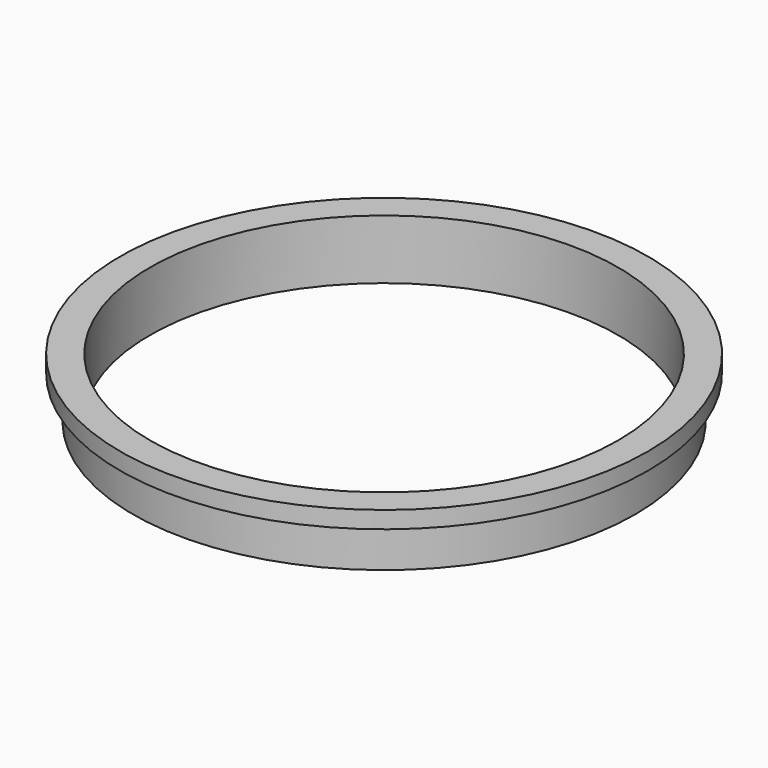
from build123d import *

# Parameters (mm, degrees)
SKETCH_R      = 29.5
SKETCH_R_2    = 27.5
PAD_DEPTH     = 5
SKETCH001_R   = 31
SKETCH001_R_2 = 27.5
PAD001_DEPTH  = 2


with BuildPart() as part:
    # Sketch → Pad (new body)
    with BuildSketch(Plane.XY):
        Circle(SKETCH_R)
        Circle(SKETCH_R_2, mode=Mode.SUBTRACT)
    extrude(amount=PAD_DEPTH)

    # Sketch001 (on Face4 of Pad) → Pad001 (join)
    with BuildSketch(Plane.XY.offset(5)):
        Circle(SKETCH001_R)
        Circle(SKETCH001_R_2, mode=Mode.SUBTRACT)
    extrude(amount=PAD001_DEPTH)


solid = part.part
